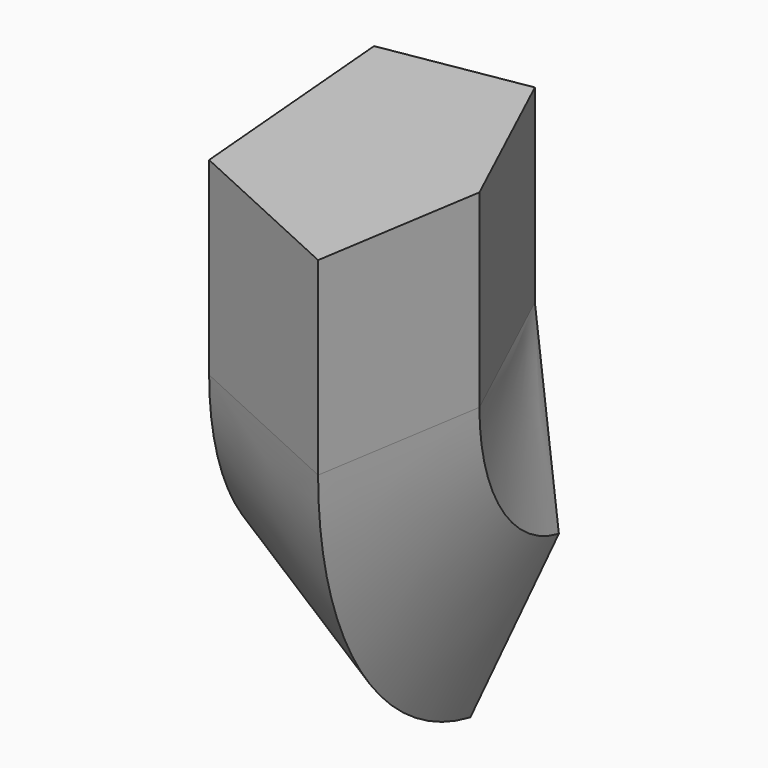
from build123d import *

# Parameters (mm, degrees)
F1_ANGLE = 74
F2_DEPTH = 147.32


with BuildPart() as f1:
    # F0 (on Top) → F1 (revolve)
    with BuildSketch(Plane.XY):
        Polygon((149.4762897491, -139.5327803805), (170.3088134527, -8.5999174044), (110.3432998061, 120.3380227089), (0, 101.7479300499), (15.3573825955, -77.9039785266), align=None)
    revolve(axis=Axis((55.1716499031, 111.0429763794, 0), (0.9861032222, 0.166133787, 0)), revolution_arc=F1_ANGLE)

    # F0 (on Top) → F2 (join)
    with BuildSketch(Plane.XY):
        Polygon((149.4762897491, -139.5327803805), (170.3088134527, -8.5999174044), (110.3432998061, 120.3380227089), (0, 101.7479300499), (15.3573825955, -77.9039785266), align=None)
    extrude(amount=F2_DEPTH)


solid = f1.part
